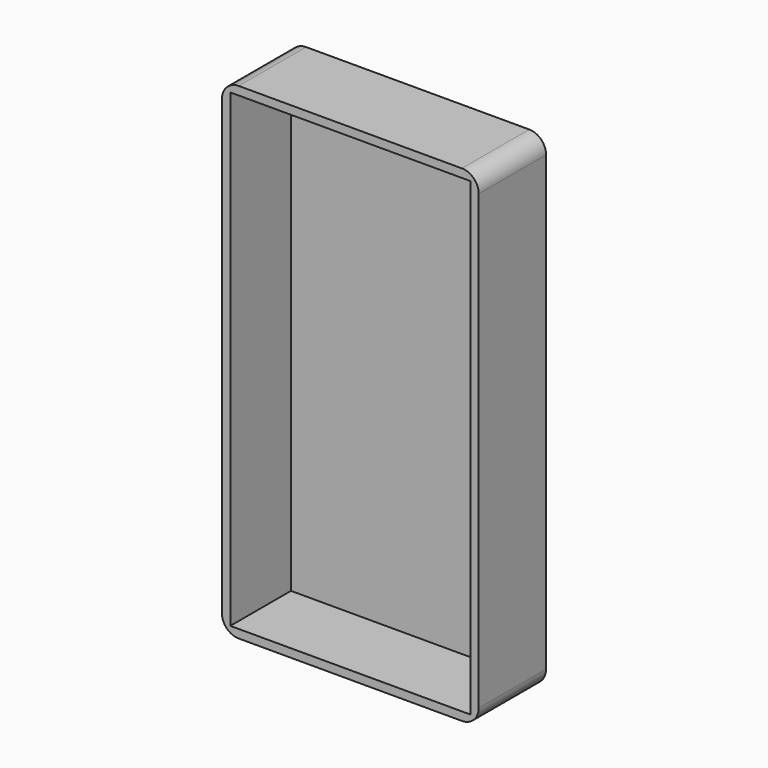
from build123d import *

# Parameters (mm, degrees)
F0_W     = 77.455164
F0_H     = 146.724008
F1_DEPTH = 12.7
F2_T     = -2.54
F3_R     = 5.08


with BuildPart() as f1:
    # F0 (on Front) → F1 (new body, symmetric)
    with BuildSketch(Plane.XZ):
        Rectangle(F0_W, F0_H)
    extrude(amount=F1_DEPTH, both=True)

    # F2
    f2_openings = [f1.faces().sort_by_distance(p)[0] for p in [
        (0, -12.7, 0),
    ]]
    offset(amount=F2_T, openings=f2_openings)

    # F3
    f3_edges = [f1.edges().sort_by_distance(p)[0] for p in [
        (38.727582, 0, 73.362004),
        (38.727582, 0, -73.362004),
        (-38.727582, 0, 73.362004),
        (-38.727582, 0, -73.362004),
    ]]
    fillet(f3_edges, radius=F3_R)


solid = f1.part
